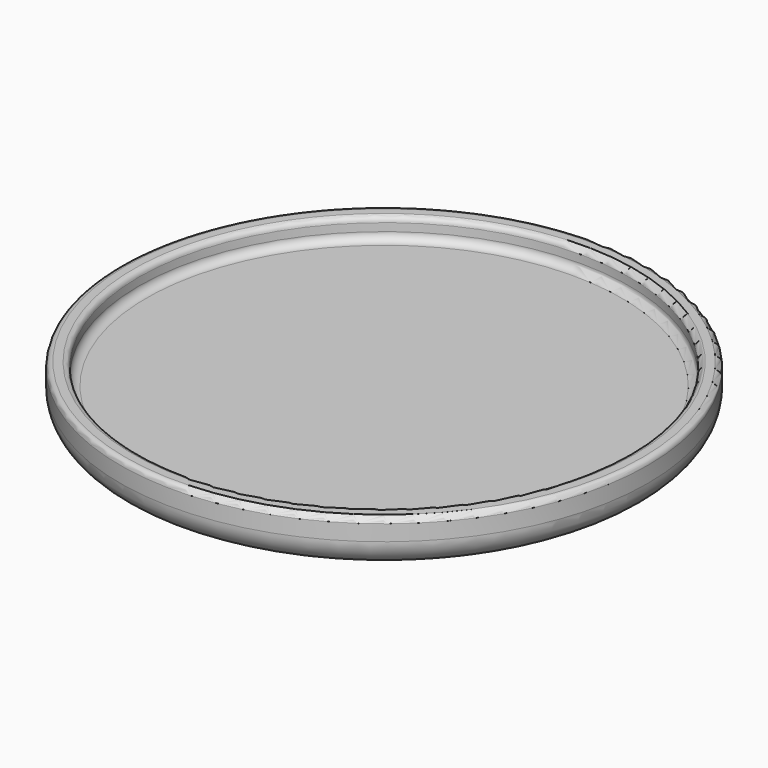
from build123d import *

# Parameters (mm, degrees)
F0_R      = 50
F1_DEPTH  = 9
F2_R      = 46.5
F3_DEPTH  = 4
F4_R      = 1
F5_R      = 5
F6_R      = 1.5
F12_COUNT = 4


with BuildPart() as f1:
    # F0 (on Top) → F1 (new body)
    with BuildSketch(Plane.XY):
        Circle(F0_R)
    extrude(amount=F1_DEPTH)

    # F2 (on face) → F3 (cut)
    with BuildSketch(Plane.XY.offset(9)):
        Circle(F2_R)
    extrude(amount=-F3_DEPTH, mode=Mode.SUBTRACT)

    # F4
    f4_edges = [f1.edges().sort_by_distance(p)[0] for p in [
        (-50, 0, 9),
        (-46.5, 0, 9),
    ]]
    fillet(f4_edges, radius=F4_R)

    # F5
    f5_edges = [f1.edges().sort_by_distance(p)[0] for p in [
        (-50, 0, 0),
    ]]
    fillet(f5_edges, radius=F5_R)

    # F6
    f6_edges = [f1.edges().sort_by_distance(p)[0] for p in [
        (-46.5, 0, 5),
    ]]
    fillet(f6_edges, radius=F6_R)


with BuildPart() as f9:
    # F8 (on Front) → F9 (revolve)
    with BuildSketch(Plane.XZ):
        with BuildLine():
            ThreePointArc((-57.1899116039, 23.3190340704), (-54.9265403444, 24.2565531427), (-53.9890212721, 26.5199244022))
            ThreePointArc((-53.9890212721, 26.5199244022), (-54.9265403444, 28.7832956617), (-57.1899116039, 29.7208147341))
            Line((-57.1899116039, 29.7208147341), (-57.1899116039, 23.3190340704))
        make_face()
    revolve(axis=Axis((-57.1899116039, 0, 25.9125977755), (0, 0, -1)))


with BuildPart() as f9_1:
    # F10: moved
    add(f9.part.moved(Location((22.5, 0, -29.1))))


with BuildPart() as f11_1:
    # F11: copy of F9
    add(f9_1.part)


with BuildPart() as f12_1:
    # F12: instance of F9
    add(f9_1.part.rotate(Axis((0, 0, 0), (0, 0, -1)), 1 * 360 / F12_COUNT))


with BuildPart() as f12_2:
    # F12: instance of F9
    add(f9_1.part.rotate(Axis((0, 0, 0), (0, 0, -1)), 2 * 360 / F12_COUNT))


with BuildPart() as f12_3:
    # F12: instance of F9
    add(f9_1.part.rotate(Axis((0, 0, 0), (0, 0, -1)), 3 * 360 / F12_COUNT))


solid = Compound([f1.part, f9_1.part, f11_1.part, f12_1.part, f12_2.part, f12_3.part])
